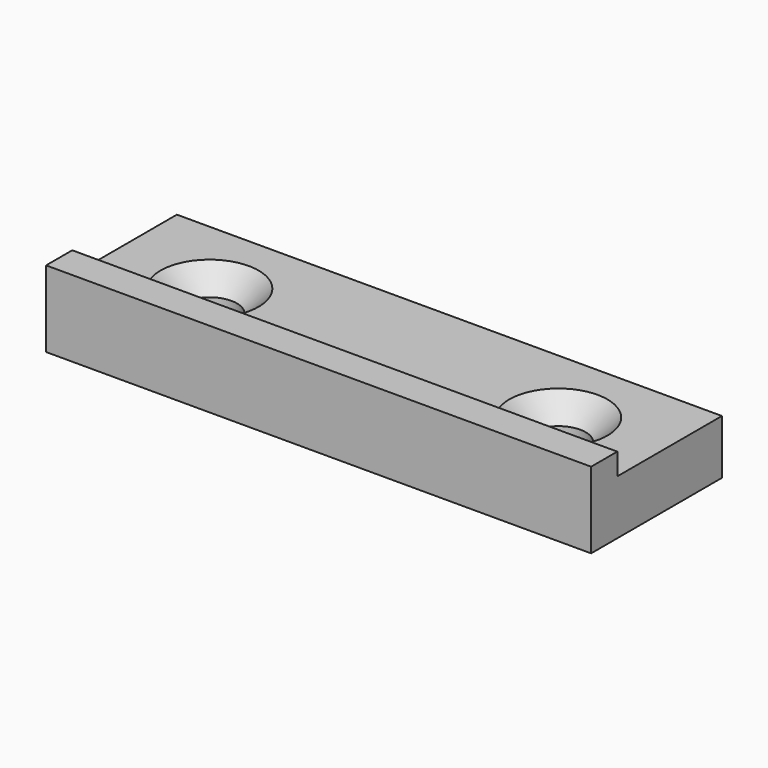
from build123d import *

# Parameters (mm, degrees)
F1_DEPTH       = 50
F3_D           = 5
F3_CSINK_D     = 9
F3_CSINK_ANGLE = 90


with BuildPart() as f1:
    # F0 (on Right) → F1 (new body)
    with BuildSketch(Plane.YZ):
        Polygon((-15, 0), (0, 0), (0, 5), (-12, 5), (-12, 7), (-15, 7), (-15, 5), align=None)
    extrude(amount=F1_DEPTH)

    # F3 (through all)
    with Locations(Plane.XY.offset(5)):
        with Locations((41, -7.5), (9, -7.5)):
            CounterSinkHole(F3_D / 2, F3_CSINK_D / 2, counter_sink_angle=F3_CSINK_ANGLE)


solid = f1.part
